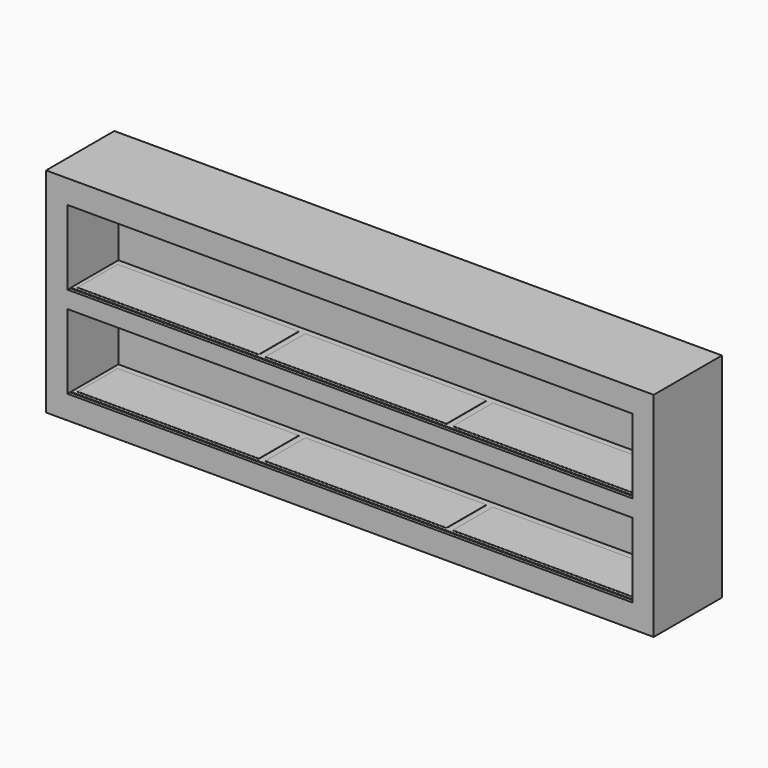
from build123d import *

# Parameters (mm, degrees)
F0_W      = 2850
F0_H      = 1000
F1_DEPTH  = 400
F2_W      = 2650
F2_H      = 350
F3_DEPTH  = 300
F4_W      = 2650
F4_H      = 5
F5_DEPTH  = 5
F6_W      = 850
F6_H      = 235
F7_DEPTH  = 1
F8_W      = 2650
F8_H      = 5
F9_DEPTH  = 5
F10_W     = 850
F10_H     = 235
F10_W_2   = 425
F11_DEPTH = 1
F12_DEPTH = 1
F13_DEPTH = 1
F14_W     = 2650
F14_H     = 350
F15_DEPTH = 1
F16_DEPTH = 1


with BuildPart() as f1:
    # F0 (on Front) → F1 (new body)
    with BuildSketch(Plane.XZ):
        Rectangle(F0_W, F0_H)
    extrude(amount=-F1_DEPTH)

    # F2 (on Front) → F3 (cut)
    with BuildSketch(Plane.XZ):
        with Locations((0, 215)):
            Rectangle(F2_W, F2_H)
        with Locations((0, -215)):
            Rectangle(F2_W, F2_H)
    extrude(amount=-F3_DEPTH, mode=Mode.SUBTRACT)

    # F4 (on face) → F5 (cut)
    with BuildSketch(Plane.XY.offset(-390)):
        with Locations((0, 17.5)):
            Rectangle(F4_W, F4_H)
    extrude(amount=-F5_DEPTH, mode=Mode.SUBTRACT)

    # F6 (on face) → F7 (cut)
    with BuildSketch(Plane.XY.offset(-390)):
        with Locations((-880, 152.5)):
            Rectangle(F6_W, F6_H)
        with Locations((880, 152.5)):
            Rectangle(F6_W, F6_H)
        with Locations((0, 152.5)):
            Rectangle(F6_W, F6_H)
    extrude(amount=-F7_DEPTH, mode=Mode.SUBTRACT)

    # F8 (on face) → F9 (cut)
    with BuildSketch(Plane.XY.offset(40)):
        with Locations((0, 17.5)):
            Rectangle(F8_W, F8_H)
    extrude(amount=-F9_DEPTH, mode=Mode.SUBTRACT)

    # F10 (on face) → F11 (cut)
    with BuildSketch(Plane.XY.offset(40)):
        with Locations((-880, 152.5)):
            Rectangle(F10_W, F10_H)
        with Locations((880, 152.5)):
            Rectangle(F10_W, F10_H)
        with Locations((-212.5, 152.5)):
            Rectangle(F10_W_2, F10_H)
        with Locations((212.5, 152.5)):
            Rectangle(F10_W_2, F10_H)
    extrude(amount=-F11_DEPTH, mode=Mode.SUBTRACT)

    # F14 (on face) → F15 (cut)
    with BuildSketch(Plane.XZ.offset(-300)):
        with Locations((0, -215)):
            Rectangle(F14_W, F14_H)
        with Locations((0, 215)):
            Rectangle(F14_W, F14_H)
    extrude(amount=-F15_DEPTH, mode=Mode.SUBTRACT)


with BuildPart() as f12:
    # F10 (on face) → F12 (new body)
    with BuildSketch(Plane.XY.offset(40)):
        with Locations((-880, 152.5)):
            Rectangle(F10_W, F10_H)
        with Locations((880, 152.5)):
            Rectangle(F10_W, F10_H)
        with Locations((-212.5, 152.5)):
            Rectangle(F10_W_2, F10_H)
        with Locations((212.5, 152.5)):
            Rectangle(F10_W_2, F10_H)
    extrude(amount=F12_DEPTH)


with BuildPart() as f13:
    # F6 (on face) → F13 (new body)
    with BuildSketch(Plane.XY.offset(-390)):
        with Locations((-880, 152.5)):
            Rectangle(F6_W, F6_H)
        with Locations((880, 152.5)):
            Rectangle(F6_W, F6_H)
        with Locations((0, 152.5)):
            Rectangle(F6_W, F6_H)
    extrude(amount=F13_DEPTH)


with BuildPart() as f16:
    # F14 (on face) → F16 (new body)
    with BuildSketch(Plane.XZ.offset(-300)):
        with Locations((0, -215)):
            Rectangle(F14_W, F14_H)
        with Locations((0, 215)):
            Rectangle(F14_W, F14_H)
    extrude(amount=F16_DEPTH)


solid = Compound([f1.part, f12.part, f13.part, f16.part])
